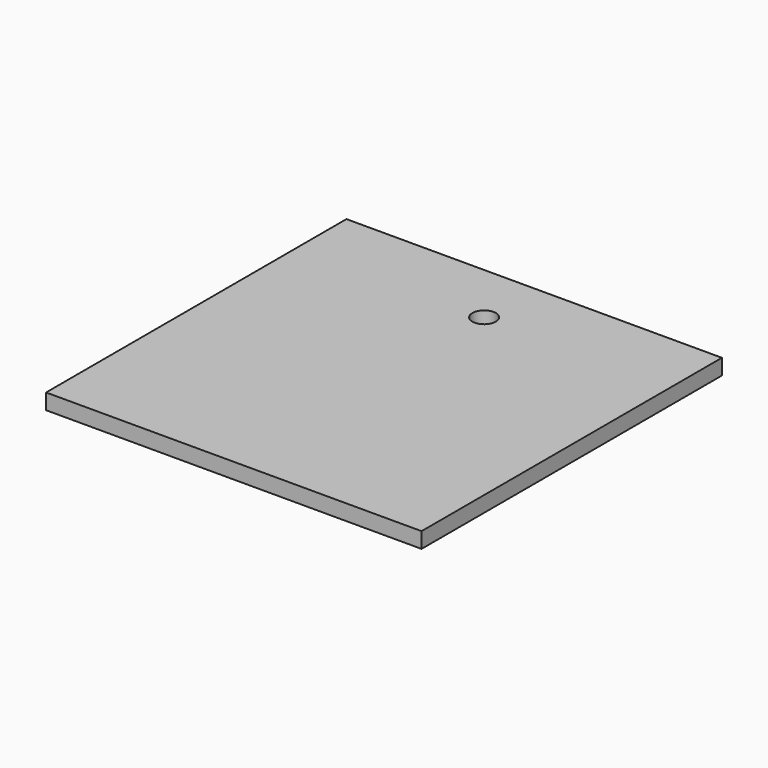
from build123d import *

# Parameters (mm, degrees)
F0_W     = 152.4
F0_H     = 152.4
F1_DEPTH = 6.35
F2_R     = 4.7625
F3_DEPTH = 6.351


with BuildPart() as f1:
    # F0 (on Top) → F1 (new body)
    with BuildSketch(Plane.XY):
        Rectangle(F0_W, F0_H)
    extrude(amount=F1_DEPTH)

    # F2 (on face) → F3 (cut, through all)
    with BuildSketch(Plane.XY.offset(6.35)):
        with Locations((0, 50.8)):
            Circle(F2_R)
    extrude(amount=-F3_DEPTH, mode=Mode.SUBTRACT)


solid = f1.part
